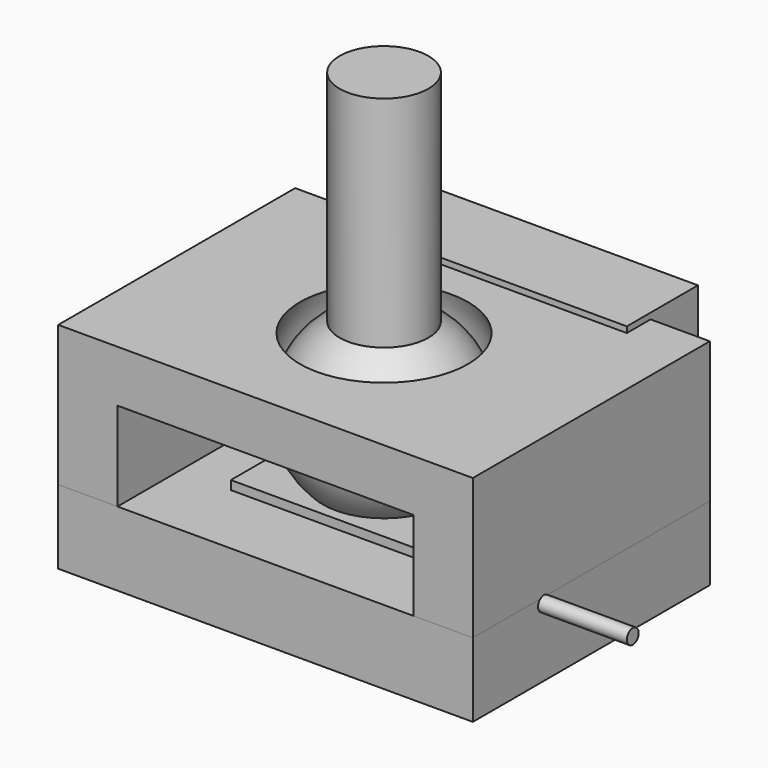
from build123d import *

# Parameters (mm, degrees)
CYLINDER002_R           = 0.25
CYLINDER002_DEPTH       = 10
CYLINDER002_PITCH_ANGLE = 90
CYLINDER001_R           = 0.25
CYLINDER001_DEPTH       = 10
CYLINDER001_PITCH_ANGLE = 90
BOX_W                   = 6.5
BOX_H                   = 4.8
BOX_DEPTH               = 1
BOX004_W                = 10
BOX004_H                = 3
BOX004_DEPTH            = 5
CYLINDER_R              = 1.5
CYLINDER_DEPTH          = 10
BOX005_W                = 21
BOX005_H                = 17
BOX005_DEPTH            = 8
CYLINDER005_R           = 2.5
CYLINDER005_DEPTH       = 10
CYLINDER004_R           = 0.25
CYLINDER004_DEPTH       = 10
CYLINDER004_PITCH_ANGLE = 90
CYLINDER003_R           = 0.25
CYLINDER003_DEPTH       = 10
CYLINDER003_PITCH_ANGLE = 90
BOX002_W                = 6.5
BOX002_H                = 4.8
BOX002_DEPTH            = 1
BOX003_W                = 10
BOX003_H                = 12
BOX003_DEPTH            = 3
BOX001_W                = 14
BOX001_H                = 10
BOX001_DEPTH            = 7.25
BOX006_W                = 21
BOX006_H                = 17
BOX006_DEPTH            = 12


with BuildPart() as cylinder002:
    # Cylinder002 → Cylinder002 (new body)
    with BuildSketch(Plane.XY):
        Circle(CYLINDER002_R)
    extrude(amount=CYLINDER002_DEPTH)


with BuildPart() as cylinder002_1:
    # Cylinder002 pitch: moved
    add(cylinder002.part.rotate(Axis((0, 0, 0), (0, 1, 0)), CYLINDER002_PITCH_ANGLE))


with BuildPart() as cylinder002_2:
    # Cylinder002 placement: moved
    add(cylinder002_1.part.moved(Location((0, -2, -3.7))))


with BuildPart() as fusion002:
    # Cylinder001 → Cylinder001 (new body)
    with BuildSketch(Plane.XY):
        Circle(CYLINDER001_R)
    extrude(amount=CYLINDER001_DEPTH)


with BuildPart() as fusion002_1:
    # Cylinder001 pitch: moved
    add(fusion002.part.rotate(Axis((0, 0, 0), (0, 1, 0)), CYLINDER001_PITCH_ANGLE))


with BuildPart() as fusion002_2:
    # Cylinder001 placement: moved
    add(fusion002_1.part.moved(Location((-11, 2, -3.7))))

    # Fusion002: union Cylinder002
    add(cylinder002_2.part)


with BuildPart() as switch:
    # Box → Box (new body)
    with BuildSketch(Plane(origin=(-3.25, -2.4, -4.2), x_dir=(1, 0, 0), z_dir=(0, 0, 1))):
        with Locations((3.25, 2.4)):
            Rectangle(BOX_W, BOX_H)
    extrude(amount=BOX_DEPTH)

    # Fusion003: union Fusion002
    add(fusion002_2.part)


with BuildPart() as cube004:
    # Box004 → Box004 (new body)
    with BuildSketch(Plane(origin=(-5, 4, -3.55), x_dir=(1, 0, 0), z_dir=(0, 0, 1))):
        with Locations((5, 1.5)):
            Rectangle(BOX004_W, BOX004_H)
    extrude(amount=BOX004_DEPTH)


with BuildPart() as cylinder:
    # Cylinder → Cylinder (new body)
    with BuildSketch(Plane.XY):
        Circle(CYLINDER_R)
    extrude(amount=CYLINDER_DEPTH)


with BuildPart() as ball_and_screw:
    # Sphere → Sphere (revolve)
    with BuildSketch(Plane.XZ):
        with BuildLine():
            ThreePointArc((0, -3), (3, 0), (0, 3))
            Line((0, 3), (0, -3))
        make_face()
    revolve(axis=Axis((0, 0, 0), (0, 0, 1)))

    # Fusion005: union Cylinder
    add(cylinder.part)


with BuildPart() as ball_and_screw_1:
    # Fusion005 placement: moved
    add(ball_and_screw.part.moved(Location((0, 0, -1))))


with BuildPart() as cube005:
    # Box005 → Box005 (new body)
    with BuildSketch(Plane(origin=(-9, -7, -3.5), x_dir=(1, 0, 0), z_dir=(0, 0, 1))):
        with Locations((10.5, 8.5)):
            Rectangle(BOX005_W, BOX005_H)
    extrude(amount=BOX005_DEPTH)


with BuildPart() as cylinder005:
    # Cylinder005 → Cylinder005 (new body)
    with BuildSketch(Plane.XY.offset(0.5)):
        Circle(CYLINDER005_R)
    extrude(amount=CYLINDER005_DEPTH)


with BuildPart() as fusion004:
    # Sphere001 → Sphere001 (revolve)
    with BuildSketch(Plane.XZ):
        with BuildLine():
            ThreePointArc((0, -3.1), (3.1, 0), (0, 3.1))
            Line((0, 3.1), (0, -3.1))
        make_face()
    revolve(axis=Axis((0, 0, 0), (0, 0, 1)))

    # Fusion004: union Cylinder005
    add(cylinder005.part)


with BuildPart() as cylinder004:
    # Cylinder004 → Cylinder004 (new body)
    with BuildSketch(Plane.XY):
        Circle(CYLINDER004_R)
    extrude(amount=CYLINDER004_DEPTH)


with BuildPart() as cylinder004_1:
    # Cylinder004 pitch: moved
    add(cylinder004.part.rotate(Axis((0, 0, 0), (0, 1, 0)), CYLINDER004_PITCH_ANGLE))


with BuildPart() as cylinder004_2:
    # Cylinder004 placement: moved
    add(cylinder004_1.part.moved(Location((0, -2, -3.7))))


with BuildPart() as fusion:
    # Cylinder003 → Cylinder003 (new body)
    with BuildSketch(Plane.XY):
        Circle(CYLINDER003_R)
    extrude(amount=CYLINDER003_DEPTH)


with BuildPart() as fusion_1:
    # Cylinder003 pitch: moved
    add(fusion.part.rotate(Axis((0, 0, 0), (0, 1, 0)), CYLINDER003_PITCH_ANGLE))


with BuildPart() as fusion_2:
    # Cylinder003 placement: moved
    add(fusion_1.part.moved(Location((-11, 2, -3.7))))

    # Fusion: union Cylinder004
    add(cylinder004_2.part)


with BuildPart() as fusion001:
    # Box002 → Box002 (new body)
    with BuildSketch(Plane(origin=(-3.25, -2.4, -4.2), x_dir=(1, 0, 0), z_dir=(0, 0, 1))):
        with Locations((3.25, 2.4)):
            Rectangle(BOX002_W, BOX002_H)
    extrude(amount=BOX002_DEPTH)

    # Fusion001: union Fusion
    add(fusion_2.part)


with BuildPart() as cube003:
    # Box003 → Box003 (new body)
    with BuildSketch(Plane(origin=(-5, -6, -3.5), x_dir=(1, 0, 0), z_dir=(0, 0, 1))):
        with Locations((5, 6)):
            Rectangle(BOX003_W, BOX003_H)
    extrude(amount=BOX003_DEPTH)


with BuildPart() as cut001:
    # Box001 → Box001 (new body)
    with BuildSketch(Plane(origin=(-7, -5, -6), x_dir=(1, 0, 0), z_dir=(0, 0, 1))):
        with Locations((7, 5)):
            Rectangle(BOX001_W, BOX001_H)
    extrude(amount=BOX001_DEPTH)

    # Cut: cut Cube003
    add(cube003.part, mode=Mode.SUBTRACT)

    # Cut001: cut Fusion001
    add(fusion001.part, mode=Mode.SUBTRACT)


with BuildPart() as bottom_switch_holder:
    # Cut003 base: copy of Cut001
    add(cut001.part)

    # Cut003: cut Fusion004
    add(fusion004.part, mode=Mode.SUBTRACT)

    # Cut004: cut Cube005
    add(cube005.part, mode=Mode.SUBTRACT)


with BuildPart() as cube006:
    # Box006 → Box006 (new body)
    with BuildSketch(Plane(origin=(-9, -7, -3.5), x_dir=(1, 0, 0), z_dir=(0, 0, 1))):
        with Locations((10.5, 8.5)):
            Rectangle(BOX006_W, BOX006_H)
    extrude(amount=BOX006_DEPTH)


with BuildPart() as ball_and_screw_holder:
    # Cut002 base: copy of Cut001
    add(cut001.part)

    # Cut002: cut Fusion004
    add(fusion004.part, mode=Mode.SUBTRACT)

    # Common: intersect Cube006
    add(cube006.part, mode=Mode.INTERSECT)


solid = Compound([switch.part, cube004.part, ball_and_screw_1.part, bottom_switch_holder.part, ball_and_screw_holder.part])
